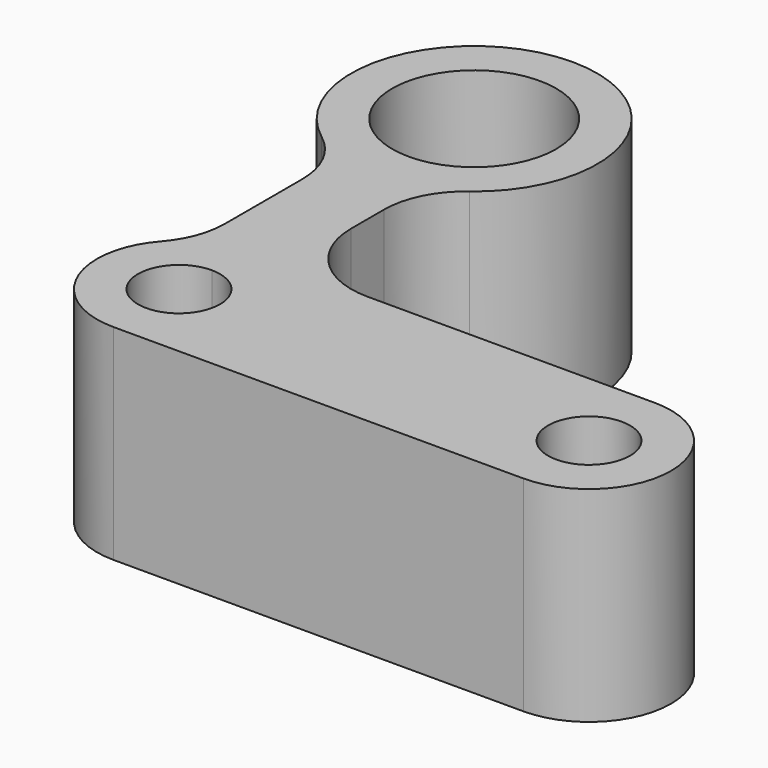
from build123d import *

# Parameters (mm, degrees)
F1_DEPTH = 25


with BuildPart() as f1:
    # F0 (on Top) → F1 (new body)
    with BuildSketch(Plane.XY):
        with BuildLine():
            ThreePointArc((5, 25), (6.055728, 29.472136), (9, 33))
            ThreePointArc((9, 33), (0, 60), (-9, 33))
            ThreePointArc((-9, 33), (-6.055728, 29.472136), (-5, 25))
            Line((-5, 25), (-5, 13.228757))
            ThreePointArc((-5, 13.228757), (-5.645857, 9.693223), (-7.5, 6.614378))
            ThreePointArc((-7.5, 6.614378), (-9.114378, -4.114378), (0, -10))
            Line((0, -10), (50, -10))
            ThreePointArc((50, -10), (60, 0), (50, 10))
            Line((50, 10), (15, 10))
            ThreePointArc((15, 10), (7.928932, 12.928932), (5, 20))
            Line((5, 20), (5, 25))
        make_face()
        with BuildLine():
            ThreePointArc((0, 5), (3.535534, 3.535534), (5, 0))
            ThreePointArc((5, 0), (-3.535534, -3.535534), (0, 5))
        make_face(mode=Mode.SUBTRACT)
        with BuildLine():
            ThreePointArc((45, 0), (50, 5), (55, 0))
            ThreePointArc((55, 0), (50, -5), (45, 0))
        make_face(mode=Mode.SUBTRACT)
        with BuildLine():
            ThreePointArc((10, 45), (7.071068, 37.928932), (0, 35))
            ThreePointArc((0, 35), (-7.071068, 52.071068), (10, 45))
        make_face(mode=Mode.SUBTRACT)
    extrude(amount=F1_DEPTH)


solid = f1.part
